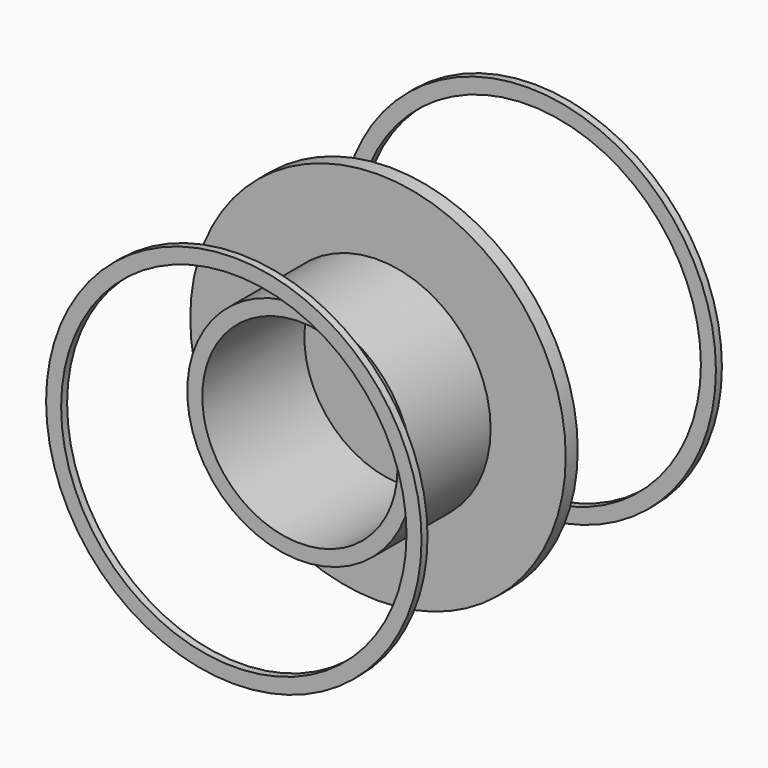
from build123d import *

# Parameters (mm, degrees)
CYLINDER007_R          = 15
CYLINDER007_DEPTH      = 10
CYLINDER007_ROLL_ANGLE = -90
CYLINDER006_R          = 25
CYLINDER006_DEPTH      = 2
CYLINDER006_ROLL_ANGLE = 90
CYLINDER001_R          = 13
CYLINDER001_DEPTH      = 17
CYLINDER001_ROLL_ANGLE = 90
CYLINDER_R             = 15
CYLINDER_DEPTH         = 18
CYLINDER_ROLL_ANGLE    = 90
FILLET001_R            = 1
CYLINDER005_R          = 25
CYLINDER005_DEPTH      = 23
CYLINDER005_ROLL_ANGLE = 90
CYLINDER004_R          = 25
CYLINDER004_DEPTH      = 23
CYLINDER004_ROLL_ANGLE = 90
CYLINDER003_R          = 23
CYLINDER003_DEPTH      = 50
CYLINDER003_ROLL_ANGLE = 90
CYLINDER002_R          = 25
CYLINDER002_DEPTH      = 50
CYLINDER002_ROLL_ANGLE = 90


with BuildPart() as cylinder007:
    # Cylinder007 → Cylinder007 (new body)
    with BuildSketch(Plane.XY):
        Circle(CYLINDER007_R)
    extrude(amount=CYLINDER007_DEPTH)


with BuildPart() as cylinder007_1:
    # Cylinder007 roll: moved
    add(cylinder007.part.rotate(Axis((0, 0, 0), (1, 0, 0)), CYLINDER007_ROLL_ANGLE))


with BuildPart() as cylinder007_2:
    # Cylinder007 placement: moved
    add(cylinder007_1.part)


with BuildPart() as cut004:
    # Cylinder006 → Cylinder006 (new body)
    with BuildSketch(Plane.XY):
        Circle(CYLINDER006_R)
    extrude(amount=CYLINDER006_DEPTH)


with BuildPart() as cut004_1:
    # Cylinder006 roll: moved
    add(cut004.part.rotate(Axis((0, 0, 0), (1, 0, 0)), CYLINDER006_ROLL_ANGLE))


with BuildPart() as cut004_2:
    # Cylinder006 placement: moved
    add(cut004_1.part.moved(Location((0, 2, 0))))

    # Cut004: cut Cylinder007
    add(cylinder007_2.part, mode=Mode.SUBTRACT)


with BuildPart() as cylinder001:
    # Cylinder001 → Cylinder001 (new body)
    with BuildSketch(Plane.XY):
        Circle(CYLINDER001_R)
    extrude(amount=CYLINDER001_DEPTH)


with BuildPart() as cylinder001_1:
    # Cylinder001 roll: moved
    add(cylinder001.part.rotate(Axis((0, 0, 0), (1, 0, 0)), CYLINDER001_ROLL_ANGLE))


with BuildPart() as cylinder001_2:
    # Cylinder001 placement: moved
    add(cylinder001_1.part.moved(Location((0, 4, 0))))


with BuildPart() as fusion002:
    # Cylinder → Cylinder (new body)
    with BuildSketch(Plane.XY):
        Circle(CYLINDER_R)
    extrude(amount=CYLINDER_DEPTH)


with BuildPart() as fusion002_1:
    # Cylinder roll: moved
    add(fusion002.part.rotate(Axis((0, 0, 0), (1, 0, 0)), CYLINDER_ROLL_ANGLE))


with BuildPart() as fusion002_2:
    # Cylinder placement: moved
    add(fusion002_1.part.moved(Location((0, 5, 0))))

    # Cut: cut Cylinder001
    add(cylinder001_2.part, mode=Mode.SUBTRACT)

    # Fillet001
    fillet001_edges = [fusion002_2.edges().sort_by_distance(p)[0] for p in [
        (-15, 5, 0),
    ]]
    fillet(fillet001_edges, radius=FILLET001_R)

    # Fusion002: union Cut004
    add(cut004_2.part)


with BuildPart() as cylinder005:
    # Cylinder005 → Cylinder005 (new body)
    with BuildSketch(Plane.XY):
        Circle(CYLINDER005_R)
    extrude(amount=CYLINDER005_DEPTH)


with BuildPart() as cylinder005_1:
    # Cylinder005 roll: moved
    add(cylinder005.part.rotate(Axis((0, 0, 0), (1, 0, 0)), CYLINDER005_ROLL_ANGLE))


with BuildPart() as cylinder005_2:
    # Cylinder005 placement: moved
    add(cylinder005_1.part)


with BuildPart() as cylinder004:
    # Cylinder004 → Cylinder004 (new body)
    with BuildSketch(Plane.XY):
        Circle(CYLINDER004_R)
    extrude(amount=CYLINDER004_DEPTH)


with BuildPart() as cylinder004_1:
    # Cylinder004 roll: moved
    add(cylinder004.part.rotate(Axis((0, 0, 0), (1, 0, 0)), CYLINDER004_ROLL_ANGLE))


with BuildPart() as cylinder004_2:
    # Cylinder004 placement: moved
    add(cylinder004_1.part.moved(Location((0, 25, 0))))


with BuildPart() as cylinder003:
    # Cylinder003 → Cylinder003 (new body)
    with BuildSketch(Plane.XY):
        Circle(CYLINDER003_R)
    extrude(amount=CYLINDER003_DEPTH)


with BuildPart() as cylinder003_1:
    # Cylinder003 roll: moved
    add(cylinder003.part.rotate(Axis((0, 0, 0), (1, 0, 0)), CYLINDER003_ROLL_ANGLE))


with BuildPart() as cylinder003_2:
    # Cylinder003 placement: moved
    add(cylinder003_1.part.moved(Location((0, 26, 0))))


with BuildPart() as fusion003:
    # Cylinder002 → Cylinder002 (new body)
    with BuildSketch(Plane.XY):
        Circle(CYLINDER002_R)
    extrude(amount=CYLINDER002_DEPTH)


with BuildPart() as fusion003_1:
    # Cylinder002 roll: moved
    add(fusion003.part.rotate(Axis((0, 0, 0), (1, 0, 0)), CYLINDER002_ROLL_ANGLE))


with BuildPart() as fusion003_2:
    # Cylinder002 placement: moved
    add(fusion003_1.part.moved(Location((0, 26, 0))))

    # Cut001: cut Cylinder003
    add(cylinder003_2.part, mode=Mode.SUBTRACT)

    # Cut002: cut Cylinder004
    add(cylinder004_2.part, mode=Mode.SUBTRACT)

    # Cut003: cut Cylinder005
    add(cylinder005_2.part, mode=Mode.SUBTRACT)

    # Fusion003: union Fusion002
    add(fusion002_2.part)


solid = fusion003_2.part
